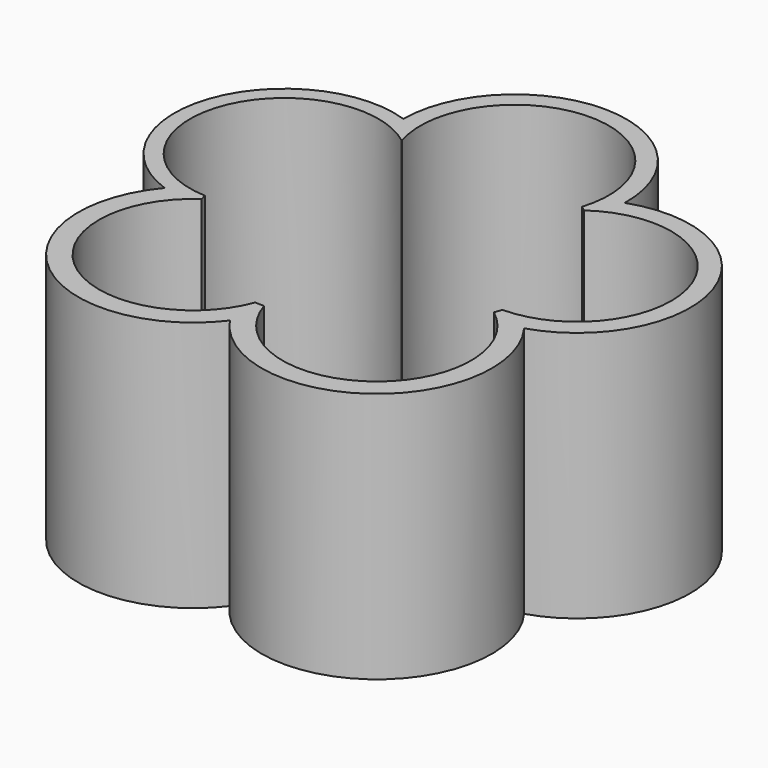
from build123d import *

# Parameters (mm, degrees)
F1_DEPTH = 8


with BuildPart() as f1:
    # F0 (on Top) → F1 (new body)
    with BuildSketch(Plane.XY):
        with BuildLine():
            ThreePointArc((-3.561162, 5.021676), (-8.002963, 2.864677), (-5.868373, -1.587937))
            ThreePointArc((-5.868373, -1.587937), (-5.350405, -6.807139), (-0.147566, -6.144698))
            ThreePointArc((-0.147566, -6.144698), (5.002213, -7.073285), (5.826574, -1.905798))
            ThreePointArc((5.826574, -1.905798), (8.176987, 2.66641), (3.560513, 4.928642))
            ThreePointArc((3.560513, 4.928642), (0.046518, 8.560924), (-3.561162, 5.021676))
        make_face()
        with BuildLine():
            ThreePointArc((-4.77668, -1.477608), (-4.805196, -1.382061), (-4.831801, -1.285963))
            ThreePointArc((-4.831801, -1.285963), (-7.516984, 2.73769), (-2.873108, 4.092096))
            ThreePointArc((-2.873108, 4.092096), (-2.867466, 4.096052), (-2.861818, 4.1))
            ThreePointArc((-2.861818, 4.1), (0, 8), (2.861818, 4.1))
            ThreePointArc((2.861818, 4.1), (2.943989, 4.041402), (3.024962, 3.981156))
            ThreePointArc((3.024962, 3.981156), (7.61462, 2.453073), (4.780023, -1.466757))
            ThreePointArc((4.780023, -1.466757), (4.742433, -1.584087), (4.701962, -1.700456))
            ThreePointArc((4.701962, -1.700456), (4.611728, -6.536969), (0.025059, -4.999937))
            ThreePointArc((0.025059, -4.999937), (-0.11752, -4.998619), (-0.260004, -4.993235))
            ThreePointArc((-0.260004, -4.993235), (-4.913838, -6.313018), (-4.77668, -1.477608))
        make_face(mode=Mode.SUBTRACT)
    extrude(amount=F1_DEPTH)


solid = f1.part
